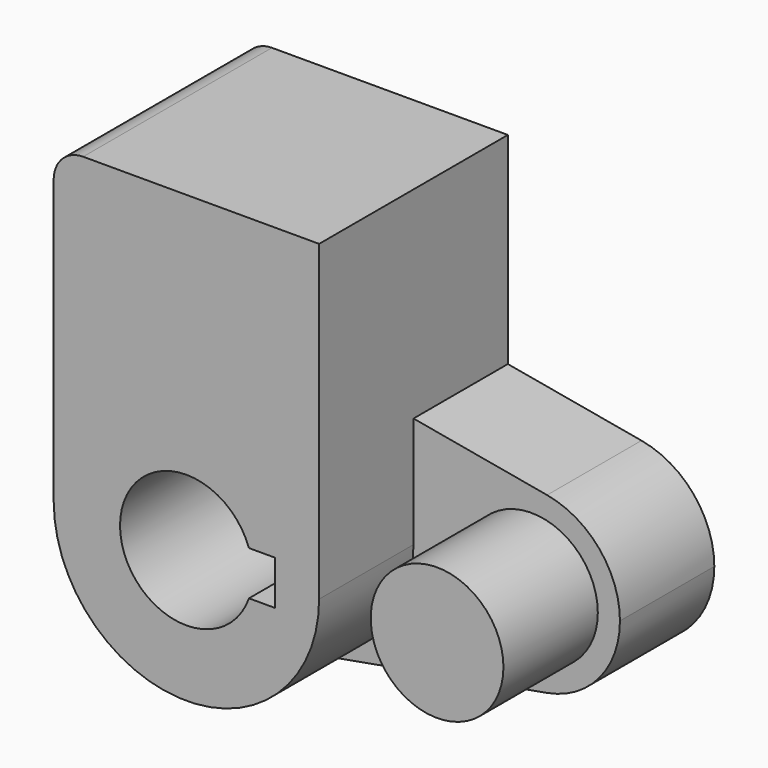
from build123d import *

# Parameters (mm, degrees)
F0_R     = 14.2875
F1_DEPTH = 25.4
F2_DEPTH = 50.8
F3_R     = 14.2875
F4_DEPTH = 50.8


with BuildPart() as f1:
    # F0 (on Front) → F1 (new body)
    with BuildSketch(Plane.XZ):
        with BuildLine():
            ThreePointArc((5.0426470588, -28.1265414802), (21.9160245563, -18.3362616868), (28.575, 0))
            ThreePointArc((28.575, 0), (21.9160245563, 18.3362616868), (5.0426470588, 28.1265414802))
            ThreePointArc((5.0426470588, 28.1265414802), (-28.575, 0), (5.0426470588, -28.1265414802))
        make_face()
        with BuildLine():
            ThreePointArc((-13.4703841816, 4.7625), (0, 14.2875), (13.4703841816, 4.7625))
            Line((13.4703841816, 4.7625), (19.05, 4.7625))
            Line((19.05, 4.7625), (19.05, -4.7625))
            Line((19.05, -4.7625), (13.4703841816, -4.7625))
            ThreePointArc((13.4703841816, -4.7625), (0, -14.2875), (-13.4703841816, -4.7625))
            Line((-13.4703841816, -4.7625), (-19.05, -4.7625))
            Line((-19.05, -4.7625), (-19.05, 4.7625))
            Line((-19.05, 4.7625), (-13.4703841816, 4.7625))
        make_face(mode=Mode.SUBTRACT)
        with BuildLine():
            ThreePointArc((-13.4703841816, -4.7625), (-14.2875, 0), (-13.4703841816, 4.7625))
            Line((-13.4703841816, 4.7625), (-19.05, 4.7625))
            Line((-19.05, 4.7625), (-19.05, -4.7625))
            Line((-19.05, -4.7625), (-13.4703841816, -4.7625))
        make_face()
        with BuildLine():
            ThreePointArc((5.0426470588, 28.1265414802), (21.9160245563, 18.3362616868), (28.575, 0))
            ThreePointArc((28.575, 0), (21.9160245563, -18.3362616868), (5.0426470588, -28.1265414802))
            Line((5.0426470588, -28.1265414802), (57.3367647059, -18.7510276535))
            ThreePointArc((57.3367647059, -18.7510276535), (34.925, 0), (57.3367647059, 18.7510276535))
            Line((57.3367647059, 18.7510276535), (5.0426470588, 28.1265414802))
        make_face()
        with BuildLine():
            ThreePointArc((73.025, 0), (68.5856830375, 12.2241744579), (57.3367647059, 18.7510276535))
            ThreePointArc((57.3367647059, 18.7510276535), (34.925, 0), (57.3367647059, -18.7510276535))
            ThreePointArc((57.3367647059, -18.7510276535), (68.5856830375, -12.2241744579), (73.025, 0))
        make_face()
        with Locations((53.975, 0)):
            Circle(F0_R, mode=Mode.SUBTRACT)
    extrude(amount=F1_DEPTH)

    # F0 (on Front) → F2 (join)
    with BuildSketch(Plane.XZ):
        with BuildLine():
            ThreePointArc((5.0426470588, -28.1265414802), (21.9160245563, -18.3362616868), (28.575, 0))
            ThreePointArc((28.575, 0), (21.9160245563, 18.3362616868), (5.0426470588, 28.1265414802))
            ThreePointArc((5.0426470588, 28.1265414802), (-28.575, 0), (5.0426470588, -28.1265414802))
        make_face()
        with BuildLine():
            ThreePointArc((-13.4703841816, 4.7625), (0, 14.2875), (13.4703841816, 4.7625))
            Line((13.4703841816, 4.7625), (19.05, 4.7625))
            Line((19.05, 4.7625), (19.05, -4.7625))
            Line((19.05, -4.7625), (13.4703841816, -4.7625))
            ThreePointArc((13.4703841816, -4.7625), (0, -14.2875), (-13.4703841816, -4.7625))
            Line((-13.4703841816, -4.7625), (-19.05, -4.7625))
            Line((-19.05, -4.7625), (-19.05, 4.7625))
            Line((-19.05, 4.7625), (-13.4703841816, 4.7625))
        make_face(mode=Mode.SUBTRACT)
        with BuildLine():
            ThreePointArc((-13.4703841816, -4.7625), (-14.2875, 0), (-13.4703841816, 4.7625))
            Line((-13.4703841816, 4.7625), (-19.05, 4.7625))
            Line((-19.05, 4.7625), (-19.05, -4.7625))
            Line((-19.05, -4.7625), (-13.4703841816, -4.7625))
        make_face()
    extrude(amount=F2_DEPTH)

    # F3 (on face) → F4 (join, through all)
    with BuildSketch(Plane.XZ.offset(50.8)):
        with BuildLine():
            Line((-28.575, 60.9835536748), (-28.575, 0))
            ThreePointArc((-28.575, 0), (0, 28.575), (28.575, 0))
            Line((28.575, 0), (28.575, 67.3335536748))
            Line((28.575, 67.3335536748), (-22.225, 67.3335536748))
            ThreePointArc((-22.225, 67.3335536748), (-26.7151280605, 65.4736817353), (-28.575, 60.9835536748))
        make_face()
        with Locations((53.975, 0)):
            Circle(F3_R)
    extrude(amount=-F4_DEPTH)


solid = f1.part
